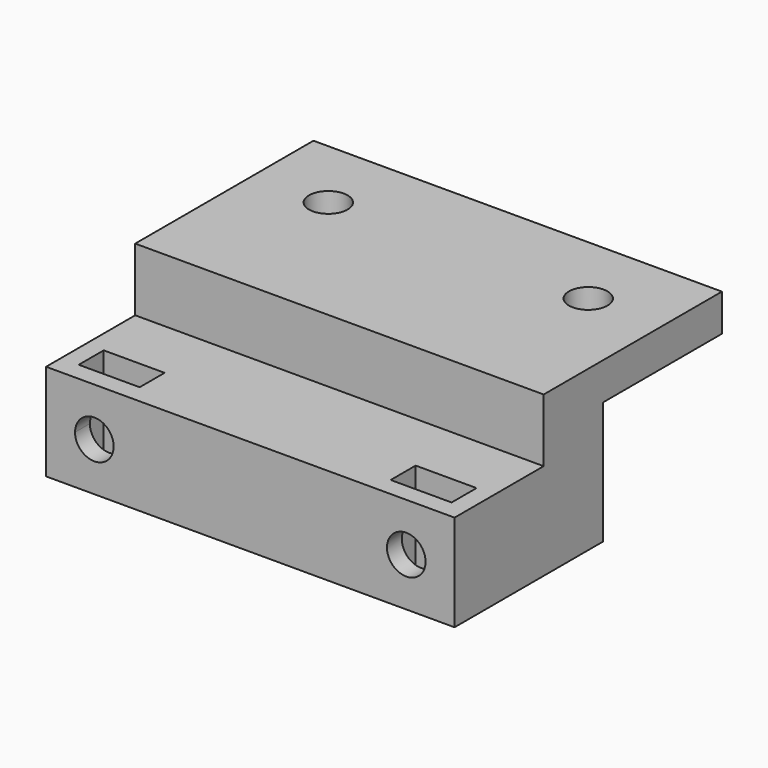
from build123d import *

# Parameters (mm, degrees)
F0_W     = 55
F0_H     = 25
F1_DEPTH = 13
F3_DEPTH = 16
F4_W     = 4.1
F4_H     = 4.2
F5_DEPTH = 31.6
F6_W     = 55
F6_H     = 10
F7_DEPTH = 5
F8_DEPTH = 3.5
F9_DEPTH = 3.5


with BuildPart() as f1:
    # F0 (on Top) → F1 (new body)
    with BuildSketch(Plane.XY):
        with Locations((19.0712029868, -0.8496874943)):
            Rectangle(F0_W, F0_H)
    extrude(amount=F1_DEPTH)

    # F2 (on face) → F3 (cut)
    with BuildSketch(Plane.XZ.offset(13.3496874943)):
        with BuildLine():
            Line((-1.9287970132, 6.5), (-1.9287970132, 9.1))
            ThreePointArc((-1.9287970132, 9.1), (-3.7672746443, 8.3384776311), (-4.5287970132, 6.5))
            Line((-4.5287970132, 6.5), (-1.9287970132, 6.5))
        make_face()
        with BuildLine():
            ThreePointArc((0.6712029868, 6.5), (-0.0903193822, 8.3384776311), (-1.9287970132, 9.1))
            Line((-1.9287970132, 9.1), (-1.9287970132, 6.5))
            Line((-1.9287970132, 6.5), (-4.5287970132, 6.5))
            ThreePointArc((-4.5287970132, 6.5), (-1.9287970132, 3.9), (0.6712029868, 6.5))
        make_face()
        with BuildLine():
            ThreePointArc((42.6712029868, 6.5), (41.9096806178, 8.3384776311), (40.0712029868, 9.1))
            Line((40.0712029868, 9.1), (40.0712029868, 6.5))
            Line((40.0712029868, 6.5), (42.6712029868, 6.5))
        make_face()
        with BuildLine():
            Line((40.0712029868, 6.5), (40.0712029868, 9.1))
            ThreePointArc((40.0712029868, 9.1), (38.2327253557, 4.6615223689), (42.6712029868, 6.5))
            Line((42.6712029868, 6.5), (40.0712029868, 6.5))
        make_face()
    extrude(amount=-F3_DEPTH, mode=Mode.SUBTRACT)

    # F4 (on face) → F5 (cut)
    with BuildSketch(Plane.XY.offset(13)):
        Polygon((35.9712029868, -6.6496874943), (35.9712029868, -10.8496874943), (40.0712029868, -10.8496874943), (44.1712029868, -10.8496874943), (44.1712029868, -6.6496874943), (40.0712029868, -6.6496874943), align=None)
        with Locations((0.1212029868, -8.7496874943)):
            Rectangle(F4_W, F4_H)
        with Locations((-3.9787970132, -8.7496874943)):
            Rectangle(F4_W, F4_H)
    extrude(amount=-F5_DEPTH, mode=Mode.SUBTRACT)

    # F6 (on face) → F7 (join)
    with BuildSketch(Plane.XY.offset(13)):
        with BuildLine():
            Line((-8.4287970132, 21.6503125057), (-8.4287970132, 11.6503125057))
            Line((-8.4287970132, 11.6503125057), (46.5712029868, 11.6503125057))
            Line((46.5712029868, 11.6503125057), (46.5712029868, 21.6503125057))
            Line((46.5712029868, 21.6503125057), (39.1712029868, 21.6503125057))
            ThreePointArc((39.1712029868, 21.6503125057), (36.5712029868, 19.0503125057), (33.9712029868, 21.6503125057))
            Line((33.9712029868, 21.6503125057), (4.1712029868, 21.6503125057))
            ThreePointArc((4.1712029868, 21.6503125057), (1.5712029868, 19.0503125057), (-1.0287970132, 21.6503125057))
            Line((-1.0287970132, 21.6503125057), (-8.4287970132, 21.6503125057))
        make_face()
        with Locations((19.0712029868, 6.6503125057)):
            Rectangle(F6_W, F6_H)
        with BuildLine():
            Line((-8.4287970132, 31.6503125057), (-8.4287970132, 21.6503125057))
            Line((-8.4287970132, 21.6503125057), (-1.0287970132, 21.6503125057))
            ThreePointArc((-1.0287970132, 21.6503125057), (1.5712029868, 24.2503125057), (4.1712029868, 21.6503125057))
            Line((4.1712029868, 21.6503125057), (33.9712029868, 21.6503125057))
            ThreePointArc((33.9712029868, 21.6503125057), (36.5712029868, 24.2503125057), (39.1712029868, 21.6503125057))
            Line((39.1712029868, 21.6503125057), (46.5712029868, 21.6503125057))
            Line((46.5712029868, 21.6503125057), (46.5712029868, 31.6503125057))
            Line((46.5712029868, 31.6503125057), (-8.4287970132, 31.6503125057))
        make_face()
    extrude(amount=F7_DEPTH)

    # F8 (add): a face of the model
    f8_faces = [f1.faces().sort_by_distance(p)[0] for p in [
        (19.0712029868, 16.5182016052, 18),
    ]]
    extrude(f8_faces, amount=F8_DEPTH)

    # F9 (cut): a face of the model
    f9_faces = [f1.faces().sort_by_distance(p)[0] for p in [
        (19.0712029868, 21.6503125057, 13),
    ]]
    extrude(f9_faces, amount=-F9_DEPTH, mode=Mode.SUBTRACT)


solid = f1.part
